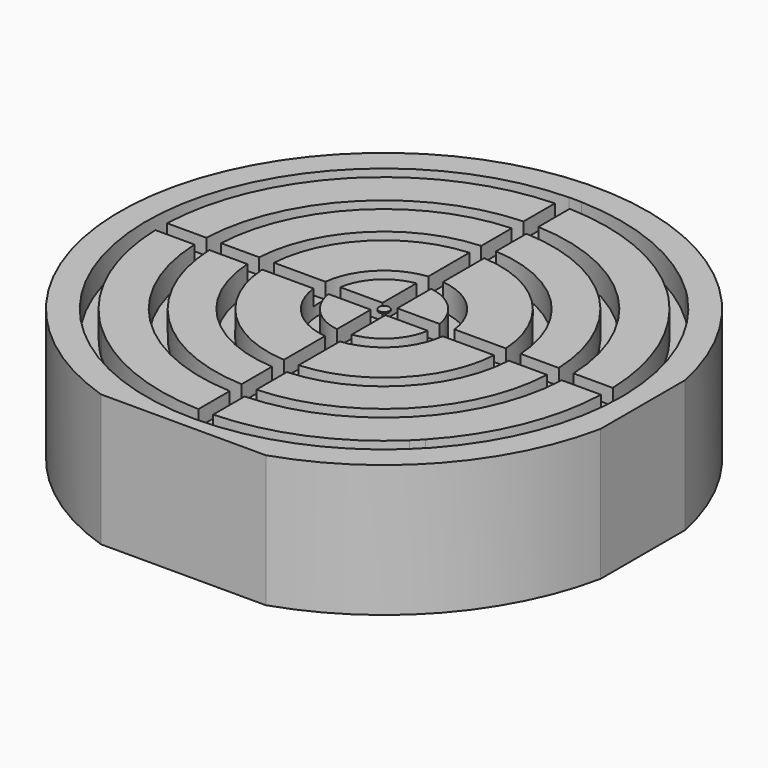
from build123d import *

# Parameters (mm, degrees)
F0_R      = 50
F0_R_2    = 1.5
F1_DEPTH  = 25
F3_DEPTH  = 5
F4_R      = 12.3
F4_R_2    = 9.5
F5_DEPTH  = 5
F6_R      = 24.8
F6_R_2    = 22
F7_DEPTH  = 5
F8_R      = 34.8
F8_R_2    = 32
F9_DEPTH  = 5
F10_W     = 2.8
F10_H     = 88
F11_W     = 88
F11_H     = 2.8
F12_DEPTH = 3
F13_W     = 36
F13_H     = 5
F13_W_2   = 2
F13_H_2   = 29
F14_DEPTH = 25
F15_R     = 1
F16_DEPTH = 0.25


with BuildPart() as f1:
    # F0 (on Top) → F1 (new body)
    with BuildSketch(Plane.XY):
        Circle(F0_R)
        Circle(F0_R_2, mode=Mode.SUBTRACT)
    extrude(amount=F1_DEPTH)

    # F2 (on face) → F3 (cut)
    with BuildSketch(Plane.XY.offset(25)):
        with BuildLine():
            Line((1.39, 42.197112), (1.39, 44.978527))
            ThreePointArc((1.39, 44.978527), (0.195069, 44.999577), (-1, 44.988888))
            Line((-1, 44.988888), (-1, 42.208156))
            ThreePointArc((-1, 42.208156), (0.195078, 42.219549), (1.39, 42.197112))
        make_face()
        with BuildLine():
            ThreePointArc((30.963591, 32.653576), (17.310829, 41.537154), (1.39, 44.978527))
            Line((1.39, 44.978527), (1.39, 42.197112))
            ThreePointArc((1.39, 42.197112), (16.246972, 38.968761), (28.997095, 30.68708))
            Line((28.997095, 30.68708), (30.963591, 32.653576))
        make_face()
        with BuildLine():
            Line((-1, 42.208156), (-1, 44.988888))
            ThreePointArc((-1, 44.988888), (-31.464265, -32.171416), (45, 0))
            ThreePointArc((45, 0), (44.994631, 0.695083), (44.978527, 1.39))
            Line((44.978527, 1.39), (42.197112, 1.39))
            ThreePointArc((42.197112, 1.39), (42.214278, 0.695094), (42.22, 0))
            ThreePointArc((42.22, 0), (42.217039, -0.500035), (42.208156, -1))
            ThreePointArc((42.208156, -1), (39.095704, -15.939082), (30.875921, -28.795936))
            ThreePointArc((30.875921, -28.795936), (30.048489, -29.658333), (29.196979, -30.496964))
            ThreePointArc((29.196979, -30.496964), (16.374193, -38.915475), (1.39, -42.197112))
            ThreePointArc((1.39, -42.197112), (0.195078, -42.219549), (-1, -42.208156))
            ThreePointArc((-1, -42.208156), (-16.066743, -39.043414), (-28.997095, -30.68708))
            ThreePointArc((-28.997095, -30.68708), (-29.854048, -29.854048), (-30.68708, -28.997095))
            ThreePointArc((-30.68708, -28.997095), (-39.043414, -16.066743), (-42.208156, -1))
            ThreePointArc((-42.208156, -1), (-42.219549, 0.195078), (-42.197112, 1.39))
            ThreePointArc((-42.197112, 1.39), (-38.915475, 16.374193), (-30.496964, 29.196979))
            ThreePointArc((-30.496964, 29.196979), (-29.658333, 30.048489), (-28.795936, 30.875921))
            ThreePointArc((-28.795936, 30.875921), (-15.939082, 39.095704), (-1, 42.208156))
        make_face()
        with BuildLine():
            ThreePointArc((32.653576, 30.963591), (31.819805, 31.819805), (30.963591, 32.653576))
            Line((30.963591, 32.653576), (28.997095, 30.68708))
            ThreePointArc((28.997095, 30.68708), (29.854048, 29.854048), (30.68708, 28.997095))
            Line((30.68708, 28.997095), (32.653576, 30.963591))
        make_face()
        with BuildLine():
            ThreePointArc((44.978527, 1.39), (41.537154, 17.310829), (32.653576, 30.963591))
            Line((32.653576, 30.963591), (30.68708, 28.997095))
            ThreePointArc((30.68708, 28.997095), (38.968761, 16.246972), (42.197112, 1.39))
            Line((42.197112, 1.39), (44.978527, 1.39))
        make_face()
    extrude(amount=-F3_DEPTH, mode=Mode.SUBTRACT)

    # F4 (on face) → F5 (cut)
    with BuildSketch(Plane.XY.offset(25)):
        Circle(F4_R)
        Circle(F4_R_2, mode=Mode.SUBTRACT)
    extrude(amount=-F5_DEPTH, mode=Mode.SUBTRACT)

    # F6 (on face) → F7 (cut)
    with BuildSketch(Plane.XY.offset(25)):
        Circle(F6_R)
        Circle(F6_R_2, mode=Mode.SUBTRACT)
    extrude(amount=-F7_DEPTH, mode=Mode.SUBTRACT)

    # F8 (on face) → F9 (cut)
    with BuildSketch(Plane.XY.offset(25)):
        Circle(F8_R)
        Circle(F8_R_2, mode=Mode.SUBTRACT)
    extrude(amount=-F9_DEPTH, mode=Mode.SUBTRACT)

    # F10 (on face) + F11 (on face) → F12 (cut)
    with BuildSketch(Plane.XY.offset(25)):
        Rectangle(F10_W, F10_H)
    with BuildSketch(Plane.XY.offset(25)):
        Rectangle(F11_W, F11_H)
    extrude(amount=-F12_DEPTH, mode=Mode.SUBTRACT)

    # F13 (on face) → F14 (cut)
    with BuildSketch(Plane.XY.offset(25)):
        with Locations((0, -50)):
            Rectangle(F13_W, F13_H)
        with Locations((50, 0)):
            Rectangle(F13_W_2, F13_H_2)
    extrude(amount=-F14_DEPTH, mode=Mode.SUBTRACT)


with BuildPart() as f16:
    # F15 (on face) → F16 (new body)
    with BuildSketch(Plane.XY.offset(25)):
        Circle(F15_R)
    extrude(amount=-F16_DEPTH)


solid = Compound([f1.part, f16.part])
